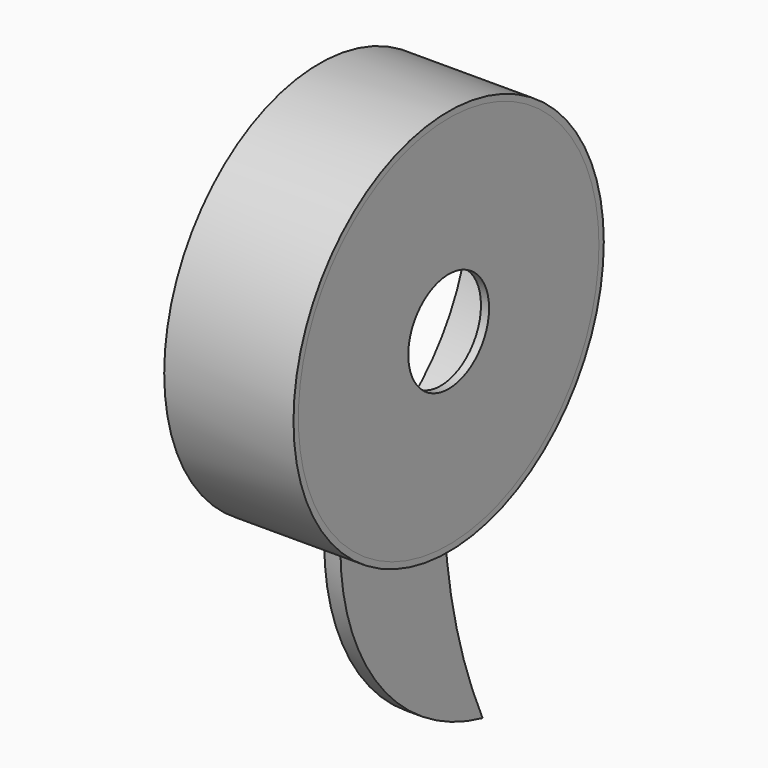
from build123d import *

# Parameters (mm, degrees)
F1_DEPTH = 12.7
F2_R     = 304.8
F2_R_2   = 295.275
F3_DEPTH = 101.6
F4_R     = 295.275
F4_R_2   = 79.375
F5_DEPTH = 12.7


with BuildPart() as f1:
    # F0 (on Right) → F1 (new body, symmetric)
    with BuildSketch(Plane.YZ):
        with BuildLine():
            ThreePointArc((101.6, -287.368196), (0, -304.8), (-101.6, -287.368196))
            ThreePointArc((-101.6, -287.368196), (-23.131923, -510.761954), (177.8, -636.015188))
            ThreePointArc((177.8, -636.015188), (120.872219, -465.806676), (101.6, -287.368196))
        make_face()
    extrude(amount=F1_DEPTH, both=True)


with BuildPart() as f3:
    # F2 (on Right) → F3 (new body, symmetric)
    with BuildSketch(Plane.YZ):
        Circle(F2_R)
        Circle(F2_R_2, mode=Mode.SUBTRACT)
    extrude(amount=F3_DEPTH, both=True)


with BuildPart() as f5:
    # F4 (on face) → F5 (new body)
    with BuildSketch(Plane.YZ.offset(101.6)):
        Circle(F4_R)
        Circle(F4_R_2, mode=Mode.SUBTRACT)
    extrude(amount=-F5_DEPTH)


solid = Compound([f1.part, f3.part, f5.part])
